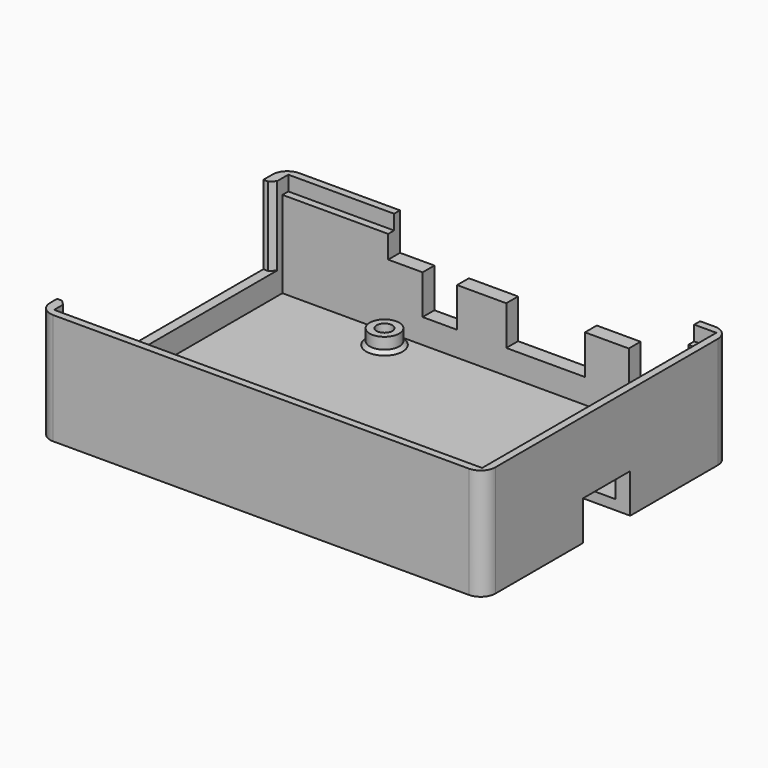
from build123d import *

# Parameters (mm, degrees)
SKETCH_W        = 90.5
SKETCH_H        = 62.5
PAD_DEPTH       = 22.6
SKETCH001_W     = 85.5
SKETCH001_H     = 56.5
POCKET_DEPTH    = 20.6
SKETCH002_W     = 15
SKETCH002_H     = 16
SKETCH002_W_2   = 16.3
POCKET001_DEPTH = 5
SKETCH003_R     = 3
PAD001_DEPTH    = 3
SKETCH004_R     = 1.6
POCKET002_DEPTH = 5
SKETCH005_R     = 2.65
POCKET003_DEPTH = 2.5
CHAMFER_SIZE    = 0.7
SKETCH006_W     = 61
SKETCH006_H     = 3
POCKET004_DEPTH = 7.6
SKETCH007_W     = 21.5
SKETCH007_H     = 1.5
POCKET005_DEPTH = 3
SKETCH008_W     = 3
SKETCH008_H     = 1.5
POCKET006_DEPTH = 3
SKETCH009_W     = 1.5
SKETCH009_H     = 58
POCKET007_DEPTH = 3
SKETCH010_W     = 87
SKETCH010_H     = 1.5
POCKET008_DEPTH = 3
CHAMFER001_SIZE = 1
FILLET_R        = 3
SKETCH011_W     = 9
SKETCH011_H     = 8
SKETCH011_W_2   = 16
SKETCH011_W_3   = 7
POCKET009_DEPTH = 5
SKETCH012_W     = 52.4
SKETCH012_H     = 16
POCKET010_DEPTH = 5
SKETCH013_W     = 13.003716
SKETCH013_H     = 12
POCKET011_DEPTH = 8


with BuildPart() as part:
    # Sketch → Pad (new body)
    with BuildSketch(Plane.XY):
        Rectangle(SKETCH_W, SKETCH_H)
    extrude(amount=PAD_DEPTH)

    # Sketch001 (on Face6 of Pad) → Pocket (cut)
    with BuildSketch(Plane.XY.offset(22.6)):
        with Locations((-0.5, 0)):
            Rectangle(SKETCH001_W, SKETCH001_H)
    extrude(amount=-POCKET_DEPTH, mode=Mode.SUBTRACT)

    # Sketch002 (on Face2 of Pocket) → Pocket001 (cut)
    with BuildSketch(Plane(origin=(-45.25, 0, 0), x_dir=(0, -1, 0), z_dir=(-1, 0, 0))):
        with Locations((19, 14.6)):
            Rectangle(SKETCH002_W, SKETCH002_H)
        with Locations((1, 14.6)):
            Rectangle(SKETCH002_W, SKETCH002_H)
        with Locations((-17.75, 14.6)):
            Rectangle(SKETCH002_W_2, SKETCH002_H)
    extrude(amount=-POCKET001_DEPTH, mode=Mode.SUBTRACT)

    # Sketch003 (on Face22 of Pocket001) → Pad001 (join)
    with BuildSketch(Plane.XY.offset(2)):
        with Locations((-19.5, 24.5)):
            Circle(SKETCH003_R)
        with Locations((38.5, 24.5)):
            Circle(SKETCH003_R)
        with Locations((-19.5, -24.5)):
            Circle(SKETCH003_R)
        with Locations((38.5, -24.5)):
            Circle(SKETCH003_R)
    extrude(amount=PAD001_DEPTH)

    # Sketch004 (on Face30 of Pad001) → Pocket002 (cut)
    with BuildSketch(Plane.XY.offset(5)):
        with Locations((-19.5, 24.5)):
            Circle(SKETCH004_R)
        with Locations((38.5, 24.5)):
            Circle(SKETCH004_R)
        with Locations((-19.5, -24.5)):
            Circle(SKETCH004_R)
        with Locations((38.5, -24.5)):
            Circle(SKETCH004_R)
    extrude(amount=-POCKET002_DEPTH, mode=Mode.SUBTRACT)

    # Sketch005 (on Face4 of Pocket002) → Pocket003 (cut)
    with BuildSketch(Plane(origin=(0, 0, 0), x_dir=(1, 0, 0), z_dir=(0, 0, -1))):
        with Locations((38.5, 24.5)):
            Circle(SKETCH005_R)
        with Locations((-19.5, 24.5)):
            Circle(SKETCH005_R)
        with Locations((-19.5, -24.5)):
            Circle(SKETCH005_R)
        with Locations((38.5, -24.5)):
            Circle(SKETCH005_R)
    extrude(amount=-POCKET003_DEPTH, mode=Mode.SUBTRACT)

    # Chamfer
    chamfer_edges = [part.edges().sort_by_distance(p)[0] for p in [
        (-22.5, -24.5, 2),
        (35.5, -24.5, 2),
        (-22.5, 24.5, 2),
        (35.5, 24.5, 2),
    ]]
    chamfer(chamfer_edges, length=CHAMFER_SIZE)

    # Sketch006 (on Face11 of Chamfer) → Pocket004 (cut)
    with BuildSketch(Plane.XY.offset(22.6)):
        with Locations((8.75, 29.75)):
            Rectangle(SKETCH006_W, SKETCH006_H)
    extrude(amount=-POCKET004_DEPTH, mode=Mode.SUBTRACT)

    # Sketch007 (on Face11 of Pocket004) → Pocket005 (cut)
    with BuildSketch(Plane.XY.offset(22.6)):
        with Locations((-32.5, 29)):
            Rectangle(SKETCH007_W, SKETCH007_H)
    extrude(amount=-POCKET005_DEPTH, mode=Mode.SUBTRACT)

    # Sketch008 (on Face15 of Pocket005) → Pocket006 (cut)
    with BuildSketch(Plane.XY.offset(22.6)):
        with Locations((40.75, 29)):
            Rectangle(SKETCH008_W, SKETCH008_H)
    extrude(amount=-POCKET006_DEPTH, mode=Mode.SUBTRACT)

    # Sketch009 (on Face16 of Pocket006) → Pocket007 (cut)
    with BuildSketch(Plane.XY.offset(22.6)):
        with Locations((43, 0.75)):
            Rectangle(SKETCH009_W, SKETCH009_H)
    extrude(amount=-POCKET007_DEPTH, mode=Mode.SUBTRACT)

    # Sketch010 (on Face16 of Pocket007) → Pocket008 (cut)
    with BuildSketch(Plane.XY.offset(22.6)):
        with Locations((0.25, -29)):
            Rectangle(SKETCH010_W, SKETCH010_H)
    extrude(amount=-POCKET008_DEPTH, mode=Mode.SUBTRACT)

    # Chamfer001
    chamfer001_edges = [part.edges().sort_by_distance(p)[0] for p in [
        (-43.25, -11.5, 14.6),
        (-43.25, -8.5, 14.6),
        (-43.25, 6.5, 14.6),
        (-43.25, 9.6, 14.6),
        (-43.25, 25.9, 14.6),
        (-43.25, -26.5, 14.6),
    ]]
    chamfer(chamfer001_edges, length=CHAMFER001_SIZE)

    # Fillet
    fillet_edges = [part.edges().sort_by_distance(p)[0] for p in [
        (-45.25, -31.25, 11.3),
        (45.25, -31.25, 11.3),
        (-45.25, 31.25, 11.3),
        (45.25, 31.25, 11.3),
    ]]
    fillet(fillet_edges, radius=FILLET_R)

    # Sketch011 (on Face13 of Fillet) → Pocket009 (cut)
    with BuildSketch(Plane(origin=(0, 31.25, 0), x_dir=(-1, 0, 0), z_dir=(0, 1, 0))):
        with Locations((-31.65, 11)):
            Rectangle(SKETCH011_W, SKETCH011_H)
        with Locations((-10.25, 11)):
            Rectangle(SKETCH011_W_2, SKETCH011_H)
        with Locations((11.25, 11)):
            Rectangle(SKETCH011_W_3, SKETCH011_H)
    extrude(amount=-POCKET009_DEPTH, mode=Mode.SUBTRACT)

    # Sketch012 (on Face2 of Pocket009) → Pocket010 (cut)
    with BuildSketch(Plane(origin=(-45.25, 0, 0), x_dir=(0, -1, 0), z_dir=(-1, 0, 0))):
        with Locations((0.3, 14.6)):
            Rectangle(SKETCH012_W, SKETCH012_H)
    extrude(amount=-POCKET010_DEPTH, mode=Mode.SUBTRACT)

    # Sketch013 (on Face19 of Pocket010) → Pocket011 (cut)
    with BuildSketch(Plane(origin=(0, 0, 0), x_dir=(1, 0, 0), z_dir=(0, 0, -1))):
        with Locations((38.748142, 0)):
            Rectangle(SKETCH013_W, SKETCH013_H)
    extrude(amount=-POCKET011_DEPTH, mode=Mode.SUBTRACT)


solid = part.part
